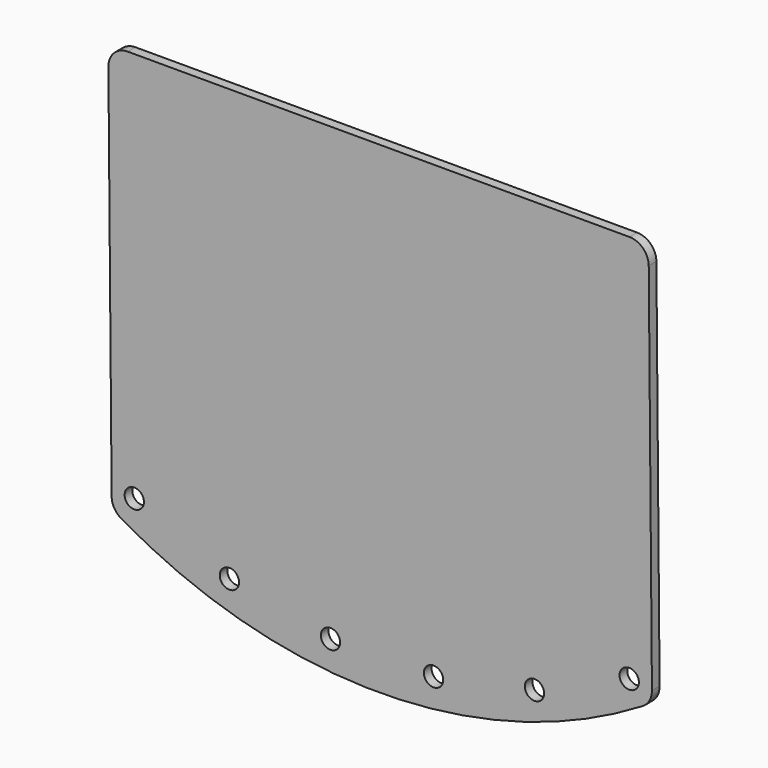
from build123d import *

# Parameters (mm, degrees)
F0_R     = 1.5875
F1_DEPTH = 1.5748


with BuildPart() as f1:
    # F0 (on Front) → F1 (new body)
    with BuildSketch(Plane.XZ):
        with BuildLine():
            Line((37.030477, 33.871589), (-45.522562, 33.871589))
            ThreePointArc((-45.522562, 33.871589), (-47.777236, 32.932001), (-48.697445, 30.669348))
            Line((-48.697445, 30.669348), (-48.164922, -31.395995))
            ThreePointArc((-48.164922, -31.395995), (-47.735053, -32.964224), (-46.585172, -34.113964))
            ThreePointArc((-46.585172, -34.113964), (-3.592271, -45.500314), (39.198925, -33.377934))
            ThreePointArc((39.198925, -33.377934), (40.328909, -32.208633), (40.731806, -30.633259))
            Line((40.731806, -30.633259), (40.20536, 30.72383))
            ThreePointArc((40.20536, 30.72383), (39.265889, 32.951264), (37.030477, 33.871589))
        make_face()
        with Locations((-28.792401, -37.041656)):
            Circle(F0_R, mode=Mode.SUBTRACT)
        with Locations((-44.438689, -30.498132)):
            Circle(F0_R, mode=Mode.SUBTRACT)
        with Locations((-12.157017, -40.34136)):
            Circle(F0_R, mode=Mode.SUBTRACT)
        with Locations((4.802295, -40.265305)):
            Circle(F0_R, mode=Mode.SUBTRACT)
        with Locations((21.407414, -36.81653)):
            Circle(F0_R, mode=Mode.SUBTRACT)
        with Locations((36.994384, -30.132936)):
            Circle(F0_R, mode=Mode.SUBTRACT)
    extrude(amount=F1_DEPTH)


solid = f1.part
